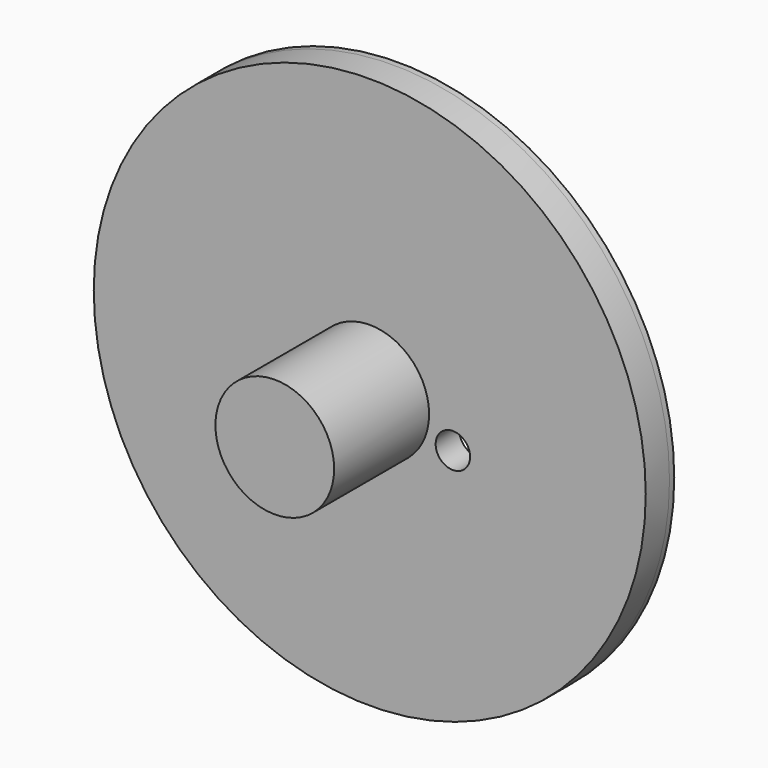
from build123d import *

# Parameters (mm, degrees)
F1_R     = 12.7
F2_DEPTH = 25.4
F0_R     = 59.055
F3_DEPTH = 6.35
F4_R     = 3.683
F5_DEPTH = 6.351
F6_R     = 59.055
F6_R_2   = 54.61
F7_DEPTH = 1.27


with BuildPart() as f2:
    # F1 (on Front) → F2 (new body)
    with BuildSketch(Plane.XZ):
        Circle(F1_R)
    extrude(amount=F2_DEPTH)

    # F0 (on Front) → F3 (join)
    with BuildSketch(Plane.XZ):
        Circle(F0_R)
    extrude(amount=-F3_DEPTH)

    # F4 (on Front) → F5 (cut, through all)
    with BuildSketch(Plane.XZ):
        with Locations((17.78, -5.192251)):
            Circle(F4_R)
    extrude(amount=-F5_DEPTH, mode=Mode.SUBTRACT)

    # F6 (on face) → F7 (join)
    with BuildSketch(Plane(origin=(0, 6.35, 0), x_dir=(-1, 0, 0), z_dir=(0, 1, 0))):
        Circle(F6_R)
        Circle(F6_R_2, mode=Mode.SUBTRACT)
    extrude(amount=F7_DEPTH)


solid = f2.part
